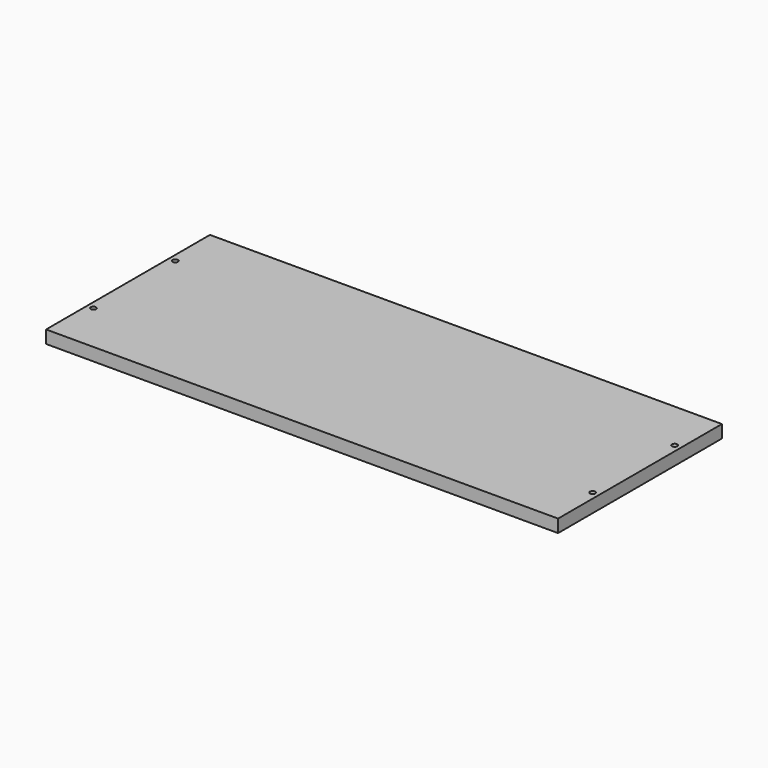
from build123d import *

# Parameters (mm, degrees)
F0_W     = 1524
F0_H     = 38.1
F1_DEPTH = 609.6
F3_D     = 15.875
F3_DEPTH = 25.4
F3_TIP   = 4.7693311635


with BuildPart() as f1:
    # F0 (on Front) → F1 (new body)
    with BuildSketch(Plane.XZ):
        with Locations((821.5423469543, 221.1446145058)):
            Rectangle(F0_W, F0_H)
    extrude(amount=-F1_DEPTH)

    # F3
    with Locations(Plane.XY.offset(240.1946145058)):
        with Locations((78.5923469543, 457.2), (78.5923469543, 152.4), (1564.4923469543, 457.2), (1564.4923469543, 152.4)):
            Hole(F3_D / 2, depth=F3_DEPTH)
            with Locations((0, 0, -(F3_DEPTH + F3_TIP / 2))):  # 118° drill point
                Cone(0, F3_D / 2, F3_TIP, mode=Mode.SUBTRACT)


solid = f1.part
